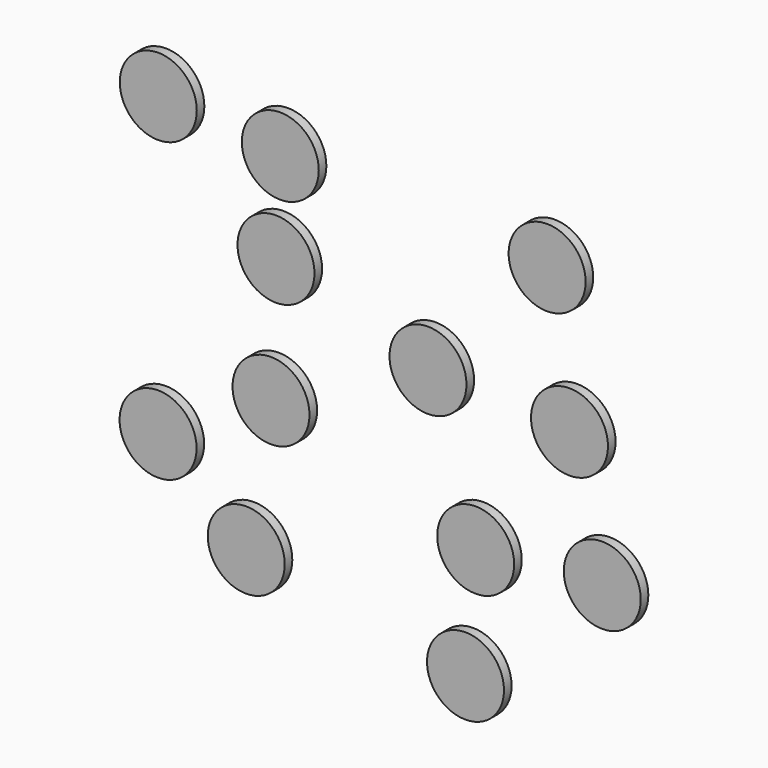
from build123d import *

# Parameters (mm, degrees)
F0_R     = 10.2997
F1_DEPTH = 2.54
F2_R     = 10.2997
F3_DEPTH = 2.54


with BuildPart() as f1:
    # F0 (on Front) → F1 (new body)
    with BuildSketch(Plane.XZ):
        with Locations((-61.200965, 52.035145)):
            Circle(F0_R)
        with Locations((-28.547721, 48.597962)):
            Circle(F0_R)
        with Locations((42.869322, 45.542687)):
            Circle(F0_R)
        with Locations((-29.693449, 23.964809)):
            Circle(F0_R)
        with Locations((10.979893, 10.979893)):
            Circle(F0_R)
        with Locations((-31.030132, -9.834165)):
            Circle(F0_R)
    extrude(amount=F1_DEPTH)


with BuildPart() as f3:
    # F2 (on Front) → F3 (new body)
    with BuildSketch(Plane.XZ):
        with Locations((23.745881, -27.224574)):
            Circle(F2_R)
        with Locations((-61.255295, -27.52707)):
            Circle(F2_R)
        with Locations((21.023422, -57.776596)):
            Circle(F2_R)
        with Locations((-37.660662, -47.189265)):
            Circle(F2_R)
        with Locations((57.625346, -24.502117)):
            Circle(F2_R)
        with Locations((48.852991, 8.772363)):
            Circle(F2_R)
    extrude(amount=F3_DEPTH)


solid = Compound([f1.part, f3.part])
